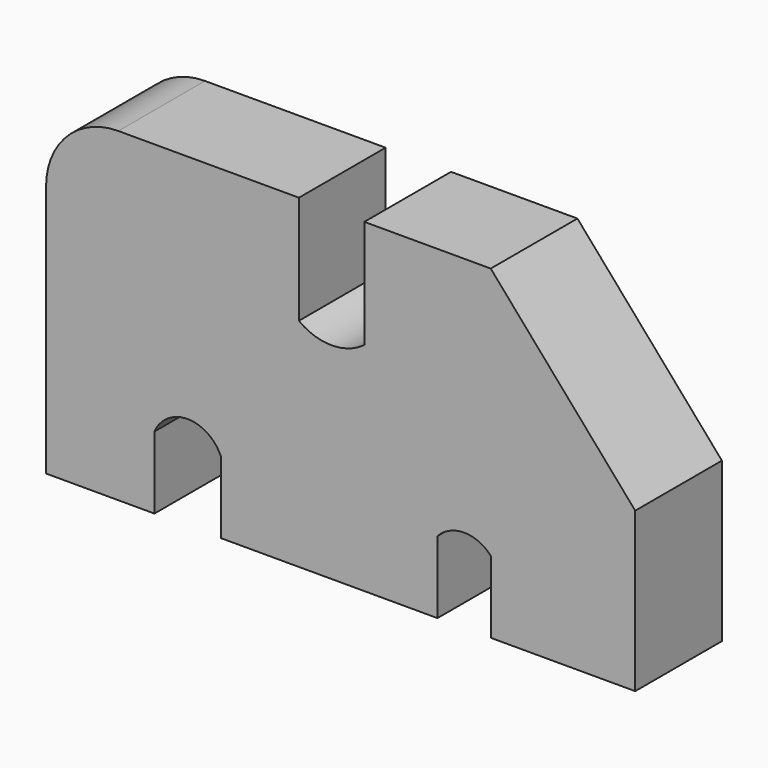
from build123d import *

# Parameters (mm, degrees)
F1_DEPTH = 30


with BuildPart() as f1:
    # F0 (on Front) → F1 (new body)
    with BuildSketch(Plane.XZ):
        with BuildLine():
            Line((-11.808292, 20.64983), (-11.808292, 50.64983))
            Line((-11.808292, 50.64983), (-61.808292, 50.64983))
            ThreePointArc((-61.808292, 50.64983), (-75.950428, 44.791966), (-81.808292, 30.64983))
            Line((-81.808292, 30.64983), (-81.808292, -39.35017))
            Line((-81.808292, -39.35017), (-51.808292, -39.35017))
            Line((-51.808292, -39.35017), (-51.808292, -19.35017))
            ThreePointArc((-51.808292, -19.35017), (-42.628635, -13.316766), (-33.448977, -19.35017))
            Line((-33.448977, -19.35017), (-33.448977, -39.35017))
            Line((-33.448977, -39.35017), (26.551023, -39.35017))
            Line((26.551023, -39.35017), (26.551023, -19.35017))
            ThreePointArc((26.551023, -19.35017), (33.926767, -16.102829), (41.30251, -19.35017))
            Line((41.30251, -19.35017), (41.30251, -39.35017))
            Line((41.30251, -39.35017), (81.30251, -39.35017))
            Line((81.30251, -39.35017), (81.30251, 4.64983))
            Line((81.30251, 4.64983), (41.30251, 50.64983))
            Line((41.30251, 50.64983), (6.30251, 50.64983))
            Line((6.30251, 50.64983), (6.30251, 20.64983))
            ThreePointArc((6.30251, 20.64983), (-2.752891, 17.608079), (-11.808292, 20.64983))
        make_face()
    extrude(amount=F1_DEPTH)


solid = f1.part
